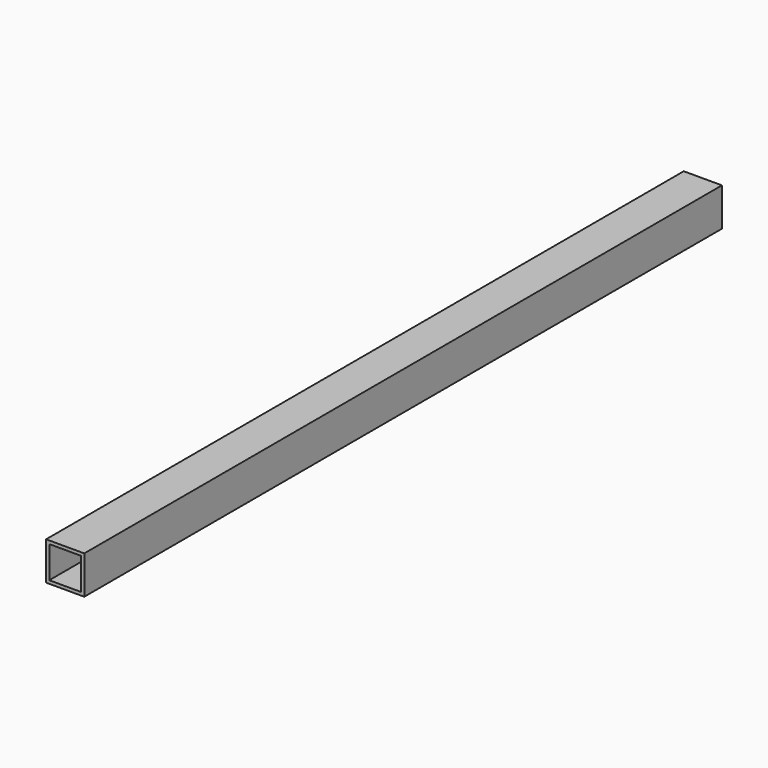
from build123d import *

# Parameters (mm, degrees)
BOX_W       = 76.2
BOX_H       = 1590.55
BOX_DEPTH   = 76.2
THICKNESS_T = -6.35


with BuildPart() as part:
    # Box → Box (new body)
    with BuildSketch(Plane.XY):
        with Locations((38.1, 795.275)):
            Rectangle(BOX_W, BOX_H)
    extrude(amount=BOX_DEPTH)

    # Thickness
    thickness_openings = [part.faces().sort_by_distance(p)[0] for p in [
        (38.1, 0, 38.1),
        (38.1, 1590.55, 38.1),
    ]]
    offset(amount=THICKNESS_T, openings=thickness_openings)


solid = part.part
